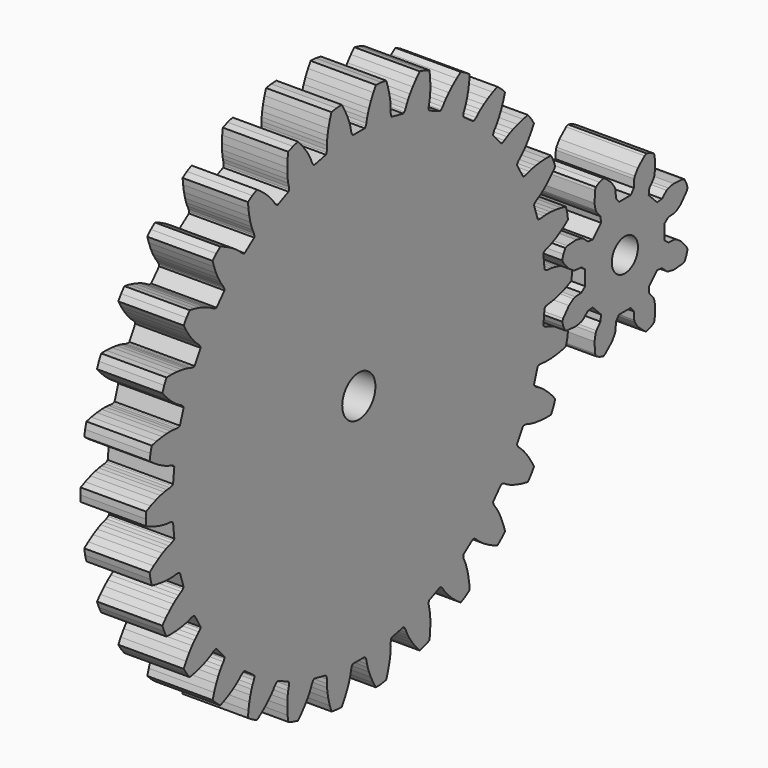
from build123d import *

# Parameters (mm, degrees)
F1_DEPTH = 10
F2_R     = 3.175
F3_DEPTH = 36.7
F4_R     = 2.5
F5_DEPTH = 56
F6_DEPTH = 2


with BuildPart() as f1:
    # F0 (on Right) → F1 (new body)
    with BuildSketch(Plane.YZ):
        Polygon((28.849024, -9.636093), (29.784062, -9.422255), (30.038928, -8.471084), (30.192972, -7.498484), (29.425748, -6.922818), (28.517222, -6.335478), (27.724242, -5.898059), (27.062545, -5.591166), (26.5457, -5.393991), (25.990495, -5.2255), (25.631829, -5.045352), (25.47228, -4.853606), (25.710303, -2.588968), (25.906232, -2.434585), (26.294515, -2.332944), (26.872618, -2.283569), (27.419164, -2.19816), (28.130208, -2.035548), (28.996804, -1.772558), (30.007592, -1.386945), (30.877738, -0.983374), (30.929274, 0), (30.877738, 0.983374), (30.007592, 1.386945), (28.996804, 1.772558), (28.130208, 2.035548), (27.419164, 2.19816), (26.872618, 2.283569), (26.294515, 2.332944), (25.906232, 2.434585), (25.710303, 2.588968), (25.47228, 4.853606), (25.631829, 5.045352), (25.990495, 5.2255), (26.5457, 5.393991), (27.062545, 5.591166), (27.724242, 5.898059), (28.517222, 6.335478), (29.425748, 6.922818), (30.192972, 7.498484), (30.038928, 8.471084), (29.784062, 9.422255), (28.849024, 9.636093), (27.780151, 9.803125), (26.877813, 9.880192), (26.148498, 9.891417), (25.596139, 9.861325), (25.020402, 9.789427), (24.619472, 9.808118), (24.395727, 9.918392), (23.69206, 12.084055), (23.808256, 12.304782), (24.12163, 12.555565), (24.629671, 12.835807), (25.094227, 13.136132), (25.677657, 13.573893), (26.362364, 14.166623), (27.128922, 14.930022), (27.759693, 15.652623), (27.406799, 16.571942), (26.959744, 17.449337), (26.000679, 17.464097), (24.920436, 17.405248), (24.021793, 17.293025), (23.306082, 17.152371), (22.772049, 17.008095), (22.223842, 16.818065), (21.827787, 16.75299), (21.586004, 16.814335), (20.447448, 18.786372), (20.515213, 19.026435), (20.769597, 19.336891), (21.208271, 19.716637), (21.600234, 20.106986), (22.0799, 20.656482), (22.626409, 21.378618), (23.217496, 22.284712), (23.684246, 23.122667), (23.147927, 23.948526), (22.52822, 24.7138), (21.587044, 24.528837), (20.542642, 24.246678), (19.686969, 23.950069), (19.016142, 23.663684), (18.523775, 23.411529), (18.027058, 23.111673), (17.653187, 22.965676), (17.403933, 22.975411), (15.880248, 24.667635), (15.89662, 24.916541), (16.080898, 25.273103), (16.431032, 25.735756), (16.733272, 26.199067), (17.088209, 26.836285), (17.472635, 27.656266), (17.862418, 28.665453), (18.144748, 29.582139), (17.448443, 30.278444), (16.683168, 30.898151), (15.801015, 30.521548), (14.8381, 30.028412), (14.062794, 29.56038), (13.466169, 29.14078), (13.036988, 28.791767), (12.613468, 28.395191), (12.278122, 28.174651), (12.032291, 28.132351), (10.190068, 29.470804), (10.154333, 29.717674), (10.26045, 30.104758), (10.506742, 30.630098), (10.706049, 31.146124), (10.920745, 31.843212), (11.126287, 32.725202), (11.29773, 33.793376), (11.383301, 34.74873), (10.557442, 35.285049), (9.680046, 35.732105), (8.89547, 35.180321), (8.056126, 34.49776), (7.395072, 33.878761), (6.898724, 33.344285), (6.551485, 32.913666), (6.219673, 32.437702), (5.937508, 32.152259), (5.705844, 32.059772), (3.625598, 32.985957), (3.539316, 33.220003), (3.562636, 33.620691), (3.694321, 34.185758), (3.781985, 34.731946), (3.847056, 35.458439), (3.864731, 36.363889), (3.810342, 37.444366), (3.695413, 38.396635), (2.776094, 38.749529), (1.824924, 39.004394), (1.172215, 38.301546), (0.493125, 37.459391), (-0.024787, 36.716477), (-0.399164, 36.090484), (-0.649284, 35.597081), (-0.874887, 35.06253), (-1.091539, 34.724659), (-1.298912, 34.586027), (-3.526264, 35.059466), (-3.659321, 35.270458), (-3.719819, 35.667239), (-3.708495, 36.247336), (-3.736306, 36.799816), (-3.823703, 37.523962), (-3.994668, 38.413301), (-4.272513, 39.458858), (-4.582918, 40.366423), (-5.555518, 40.520467), (-6.538893, 40.572004), (-7.031208, 39.748809), (-7.520364, 38.783866), (-7.872498, 37.949507), (-8.108543, 37.259356), (-8.250613, 36.724732), (-8.360146, 36.154957), (-8.501817, 35.779425), (-8.675835, 35.600707), (-10.952947, 35.600707), (-11.126965, 35.779425), (-11.268636, 36.154957), (-11.378169, 36.724732), (-11.520239, 37.259356), (-11.756284, 37.949507), (-12.108418, 38.783866), (-12.597574, 39.748809), (-13.089889, 40.572004), (-14.073264, 40.520467), (-15.045864, 40.366423), (-15.356269, 39.458858), (-15.634114, 38.413301), (-15.805079, 37.523962), (-15.892476, 36.799816), (-15.920287, 36.247336), (-15.908963, 35.667239), (-15.969461, 35.270458), (-16.102518, 35.059466), (-18.32987, 34.586027), (-18.537243, 34.724659), (-18.753895, 35.06253), (-18.979498, 35.597081), (-19.229618, 36.090484), (-19.603995, 36.716477), (-20.121907, 37.459391), (-20.800997, 38.301546), (-21.453706, 39.004394), (-22.404876, 38.749529), (-23.324195, 38.396635), (-23.439124, 37.444366), (-23.493513, 36.363889), (-23.475838, 35.458439), (-23.410767, 34.731946), (-23.323103, 34.185758), (-23.191418, 33.620691), (-23.168098, 33.220003), (-23.25438, 32.985957), (-25.334626, 32.059772), (-25.56629, 32.152259), (-25.848455, 32.437702), (-26.180267, 32.913666), (-26.527506, 33.344285), (-27.023854, 33.878761), (-27.684908, 34.49776), (-28.524252, 35.180321), (-29.308828, 35.732105), (-30.186224, 35.285049), (-31.012083, 34.74873), (-30.926512, 33.793376), (-30.755069, 32.725202), (-30.549527, 31.843212), (-30.334831, 31.146124), (-30.135524, 30.630098), (-29.889232, 30.104758), (-29.783115, 29.717674), (-29.81885, 29.470804), (-31.661073, 28.132351), (-31.906904, 28.174651), (-32.24225, 28.395191), (-32.66577, 28.791767), (-33.094951, 29.14078), (-33.691576, 29.56038), (-34.466882, 30.028412), (-35.429797, 30.521548), (-36.31195, 30.898151), (-37.077225, 30.278444), (-37.77353, 29.582139), (-37.4912, 28.665453), (-37.101417, 27.656266), (-36.716991, 26.836285), (-36.362054, 26.199067), (-36.059814, 25.735756), (-35.70968, 25.273103), (-35.525402, 24.916541), (-35.50903, 24.667635), (-37.032715, 22.975411), (-37.281969, 22.965676), (-37.65584, 23.111673), (-38.152557, 23.411529), (-38.644924, 23.663684), (-39.315751, 23.950069), (-40.171424, 24.246678), (-41.215826, 24.528837), (-42.157002, 24.7138), (-42.776709, 23.948526), (-43.313028, 23.122667), (-42.846278, 22.284712), (-42.255191, 21.378618), (-41.708682, 20.656482), (-41.229016, 20.106986), (-40.837053, 19.716637), (-40.398379, 19.336891), (-40.143995, 19.026435), (-40.07623, 18.786372), (-41.214786, 16.814335), (-41.456569, 16.75299), (-41.852624, 16.818065), (-42.400831, 17.008095), (-42.934864, 17.152371), (-43.650575, 17.293025), (-44.549218, 17.405248), (-45.629461, 17.464097), (-46.588526, 17.449337), (-47.035581, 16.571942), (-47.388475, 15.652623), (-46.757704, 14.930022), (-45.991146, 14.166623), (-45.306439, 13.573893), (-44.723009, 13.136132), (-44.258453, 12.835807), (-43.750412, 12.555565), (-43.437038, 12.304782), (-43.320842, 12.084055), (-44.024509, 9.918392), (-44.248254, 9.808118), (-44.649184, 9.789427), (-45.224921, 9.861325), (-45.77728, 9.891417), (-46.506595, 9.880192), (-47.408933, 9.803125), (-48.477806, 9.636093), (-49.412844, 9.422255), (-49.66771, 8.471084), (-49.821754, 7.498484), (-49.05453, 6.922818), (-48.146004, 6.335478), (-47.353024, 5.898059), (-46.691327, 5.591166), (-46.174482, 5.393991), (-45.619277, 5.2255), (-45.260611, 5.045352), (-45.101062, 4.853606), (-45.339085, 2.588968), (-45.535014, 2.434585), (-45.923297, 2.332944), (-46.5014, 2.283569), (-47.047946, 2.19816), (-47.75899, 2.035548), (-48.625586, 1.772558), (-49.636374, 1.386945), (-50.50652, 0.983374), (-50.558056, 0), (-50.50652, -0.983374), (-49.636374, -1.386945), (-48.625586, -1.772558), (-47.75899, -2.035548), (-47.047946, -2.19816), (-46.5014, -2.283569), (-45.923297, -2.332944), (-45.535014, -2.434585), (-45.339085, -2.588968), (-45.101062, -4.853606), (-45.260611, -5.045352), (-45.619277, -5.2255), (-46.174482, -5.393991), (-46.691327, -5.591166), (-47.353024, -5.898059), (-48.146004, -6.335478), (-49.05453, -6.922818), (-49.821754, -7.498484), (-49.66771, -8.471084), (-49.412844, -9.422255), (-48.477806, -9.636093), (-47.408933, -9.803125), (-46.506595, -9.880192), (-45.77728, -9.891417), (-45.224921, -9.861325), (-44.649184, -9.789427), (-44.248254, -9.808118), (-44.024509, -9.918392), (-43.320842, -12.084055), (-43.437038, -12.304782), (-43.750412, -12.555565), (-44.258453, -12.835807), (-44.723009, -13.136132), (-45.306439, -13.573893), (-45.991146, -14.166623), (-46.757704, -14.930022), (-47.388475, -15.652623), (-47.035581, -16.571942), (-46.588526, -17.449337), (-45.629461, -17.464097), (-44.549218, -17.405248), (-43.650575, -17.293025), (-42.934864, -17.152371), (-42.400831, -17.008095), (-41.852624, -16.818065), (-41.456569, -16.75299), (-41.214786, -16.814335), (-40.07623, -18.786372), (-40.143995, -19.026435), (-40.398379, -19.336891), (-40.837053, -19.716637), (-41.229016, -20.106986), (-41.708682, -20.656482), (-42.255191, -21.378618), (-42.846278, -22.284712), (-43.313028, -23.122667), (-42.776709, -23.948526), (-42.157002, -24.7138), (-41.215826, -24.528837), (-40.171424, -24.246678), (-39.315751, -23.950069), (-38.644924, -23.663684), (-38.152557, -23.411529), (-37.65584, -23.111673), (-37.281969, -22.965676), (-37.032715, -22.975411), (-35.50903, -24.667635), (-35.525402, -24.916541), (-35.70968, -25.273103), (-36.059814, -25.735756), (-36.362054, -26.199067), (-36.716991, -26.836285), (-37.101417, -27.656266), (-37.4912, -28.665453), (-37.77353, -29.582139), (-37.077225, -30.278444), (-36.31195, -30.898151), (-35.429797, -30.521548), (-34.466882, -30.028412), (-33.691576, -29.56038), (-33.094951, -29.14078), (-32.66577, -28.791767), (-32.24225, -28.395191), (-31.906904, -28.174651), (-31.661073, -28.132351), (-29.81885, -29.470804), (-29.783115, -29.717674), (-29.889232, -30.104758), (-30.135524, -30.630098), (-30.334831, -31.146124), (-30.549527, -31.843212), (-30.755069, -32.725202), (-30.926512, -33.793376), (-31.012083, -34.74873), (-30.186224, -35.285049), (-29.308828, -35.732105), (-28.524252, -35.180321), (-27.684908, -34.49776), (-27.023854, -33.878761), (-26.527506, -33.344285), (-26.180267, -32.913666), (-25.848455, -32.437702), (-25.56629, -32.152259), (-25.334626, -32.059772), (-23.25438, -32.985957), (-23.168098, -33.220003), (-23.191418, -33.620691), (-23.323103, -34.185758), (-23.410767, -34.731946), (-23.475838, -35.458439), (-23.493513, -36.363889), (-23.439124, -37.444366), (-23.324195, -38.396635), (-22.404876, -38.749529), (-21.453706, -39.004394), (-20.800997, -38.301546), (-20.121907, -37.459391), (-19.603995, -36.716477), (-19.229618, -36.090484), (-18.979498, -35.597081), (-18.753895, -35.06253), (-18.537243, -34.724659), (-18.32987, -34.586027), (-16.102518, -35.059466), (-15.969461, -35.270458), (-15.908963, -35.667239), (-15.920287, -36.247336), (-15.892476, -36.799816), (-15.805079, -37.523962), (-15.634114, -38.413301), (-15.356269, -39.458858), (-15.045864, -40.366423), (-14.073264, -40.520467), (-13.089889, -40.572004), (-12.597574, -39.748809), (-12.108418, -38.783866), (-11.756284, -37.949507), (-11.520239, -37.259356), (-11.378169, -36.724732), (-11.268636, -36.154957), (-11.126965, -35.779425), (-10.952947, -35.600707), (-8.675835, -35.600707), (-8.501817, -35.779425), (-8.360146, -36.154957), (-8.250613, -36.724732), (-8.108543, -37.259356), (-7.872498, -37.949507), (-7.520364, -38.783866), (-7.031208, -39.748809), (-6.538893, -40.572004), (-5.555518, -40.520467), (-4.582918, -40.366423), (-4.272513, -39.458858), (-3.994668, -38.413301), (-3.823703, -37.523962), (-3.736306, -36.799816), (-3.708495, -36.247336), (-3.719819, -35.667239), (-3.659321, -35.270458), (-3.526264, -35.059466), (-1.298912, -34.586027), (-1.091539, -34.724659), (-0.874887, -35.06253), (-0.649284, -35.597081), (-0.399164, -36.090484), (-0.024787, -36.716477), (0.493125, -37.459391), (1.172215, -38.301546), (1.824924, -39.004394), (2.776094, -38.749529), (3.695413, -38.396635), (3.810342, -37.444366), (3.864731, -36.363889), (3.847056, -35.458439), (3.781985, -34.731946), (3.694321, -34.185758), (3.562636, -33.620691), (3.539316, -33.220003), (3.625598, -32.985957), (5.705844, -32.059772), (5.937508, -32.152259), (6.219673, -32.437702), (6.551485, -32.913666), (6.898724, -33.344285), (7.395072, -33.878761), (8.056126, -34.49776), (8.89547, -35.180321), (9.680046, -35.732105), (10.557442, -35.285049), (11.383301, -34.74873), (11.29773, -33.793376), (11.126287, -32.725202), (10.920745, -31.843212), (10.706049, -31.146124), (10.506742, -30.630098), (10.26045, -30.104758), (10.154333, -29.717674), (10.190068, -29.470804), (12.032291, -28.132351), (12.278122, -28.174651), (12.613468, -28.395191), (13.036988, -28.791767), (13.466169, -29.14078), (14.062794, -29.56038), (14.8381, -30.028412), (15.801015, -30.521548), (16.683168, -30.898151), (17.448443, -30.278444), (18.144748, -29.582139), (17.862418, -28.665453), (17.472635, -27.656266), (17.088209, -26.836285), (16.733272, -26.199067), (16.431032, -25.735756), (16.080898, -25.273103), (15.89662, -24.916541), (15.880248, -24.667635), (17.403933, -22.975411), (17.653187, -22.965676), (18.027058, -23.111673), (18.523775, -23.411529), (19.016142, -23.663684), (19.686969, -23.950069), (20.542642, -24.246678), (21.587044, -24.528837), (22.52822, -24.7138), (23.147927, -23.948526), (23.684246, -23.122667), (23.217496, -22.284712), (22.626409, -21.378618), (22.0799, -20.656482), (21.600234, -20.106986), (21.208271, -19.716637), (20.769597, -19.336891), (20.515213, -19.026435), (20.447448, -18.786372), (21.586004, -16.814335), (21.827787, -16.75299), (22.223842, -16.818065), (22.772049, -17.008095), (23.306082, -17.152371), (24.021793, -17.293025), (24.920436, -17.405248), (26.000679, -17.464097), (26.959744, -17.449337), (27.406799, -16.571942), (27.759693, -15.652623), (27.128922, -14.930022), (26.362364, -14.166623), (25.677657, -13.573893), (25.094227, -13.136132), (24.629671, -12.835807), (24.12163, -12.555565), (23.808256, -12.304782), (23.69206, -12.084055), (24.395727, -9.918392), (24.619472, -9.808118), (25.020402, -9.789427), (25.596139, -9.861325), (26.148498, -9.891417), (26.877813, -9.880192), (27.780151, -9.803125), align=None)
        Polygon((-9.000918, -1.827091), (-9.398568, -1.956295), (-9.814391, -2), (-10.230214, -1.956295), (-10.627864, -1.827091), (-10.989962, -1.618034), (-11.300681, -1.338261), (-11.546442, -1), (-11.716504, -0.618034), (-11.803435, -0.209057), (-11.803435, 0.209057), (-11.716504, 0.618034), (-11.546442, 1), (-11.300681, 1.338261), (-10.989962, 1.618034), (-10.627864, 1.827091), (-10.230214, 1.956295), (-9.814391, 2), (-9.398568, 1.956295), (-9.000918, 1.827091), (-8.63882, 1.618034), (-8.328101, 1.338261), (-8.08234, 1), (-7.912278, 0.618034), (-7.825347, 0.209057), (-7.825347, -0.209057), (-7.912278, -0.618034), (-8.08234, -1), (-8.328101, -1.338261), (-8.63882, -1.618034), align=None, mode=Mode.SUBTRACT)
    extrude(amount=F1_DEPTH)

    # F2 (on face) → F3 (cut)
    with BuildSketch(Plane(origin=(0, 0, 0), x_dir=(0, -1, 0), z_dir=(-1, 0, 0))):
        with Locations((9.8143863436, 3.0898e-06)):
            Circle(F2_R)
        Polygon((9.814391, -2), (9.398568, -1.956295), (9.000918, -1.827091), (8.63882, -1.618034), (8.328101, -1.338261), (8.08234, -1), (7.912278, -0.618034), (7.825347, -0.209057), (7.825347, 0.209057), (7.912278, 0.618034), (8.08234, 1), (8.328101, 1.338261), (8.63882, 1.618034), (9.000918, 1.827091), (9.398568, 1.956295), (9.814391, 2), (10.230214, 1.956295), (10.627864, 1.827091), (10.989962, 1.618034), (11.300681, 1.338261), (11.546442, 1), (11.716504, 0.618034), (11.803435, 0.209057), (11.803435, -0.209057), (11.716504, -0.618034), (11.546442, -1), (11.300681, -1.338261), (10.989962, -1.618034), (10.627864, -1.827091), (10.230214, -1.956295), align=None, mode=Mode.SUBTRACT)
    extrude(amount=-F3_DEPTH, mode=Mode.SUBTRACT)


with BuildPart() as f1b:
    # F0 (on Right) → F1, piece 2 (new body)
    with BuildSketch(Plane.YZ):
        Polygon((27.563395, 5.693144), (27.172753, 5.559537), (26.805512, 4.872477), (26.579366, 4.126973), (26.761117, 3.756273), (27.873647, 2.481777), (28.726585, 1.909022), (29.070087, 1.791537), (30.253014, 1.711272), (30.979274, 1.138556), (30.979274, -1.138556), (30.253014, -1.711272), (29.070087, -1.791537), (28.726585, -1.909022), (27.873647, -2.481777), (26.761117, -3.756273), (26.579366, -4.126973), (26.805512, -4.872477), (27.172753, -5.559537), (27.563395, -5.693144), (29.251278, -5.807671), (30.259395, -5.609553), (30.585361, -5.449734), (31.478573, -4.670034), (32.397088, -4.561462), (34.00725, -6.171623), (33.898678, -7.090138), (33.118977, -7.98335), (32.959159, -8.309317), (32.76104, -9.317434), (32.875568, -11.005317), (33.009175, -11.395958), (33.696235, -11.7632), (34.441738, -11.989346), (34.812438, -11.807595), (36.086935, -10.695065), (36.65969, -9.842127), (36.777175, -9.498625), (36.857439, -8.315698), (37.430155, -7.589437), (39.707268, -7.589437), (40.279984, -8.315698), (40.360249, -9.498625), (40.477733, -9.842127), (41.050489, -10.695065), (42.324985, -11.807595), (42.695685, -11.989346), (43.441188, -11.7632), (44.128249, -11.395958), (44.261856, -11.005317), (44.376383, -9.317434), (44.178264, -8.309317), (44.018446, -7.98335), (43.238746, -7.090138), (43.130173, -6.171623), (44.740335, -4.561462), (45.65885, -4.670034), (46.552062, -5.449734), (46.878028, -5.609553), (47.886146, -5.807671), (49.574029, -5.693144), (49.96467, -5.559537), (50.331911, -4.872477), (50.558057, -4.126973), (50.376307, -3.756273), (49.263776, -2.481777), (48.410839, -1.909022), (48.067337, -1.791537), (46.884409, -1.711272), (46.158149, -1.138556), (46.158149, 1.138556), (46.884409, 1.711272), (48.067337, 1.791537), (48.410839, 1.909022), (49.263776, 2.481777), (50.376307, 3.756273), (50.558057, 4.126973), (50.331911, 4.872477), (49.96467, 5.559537), (49.574029, 5.693144), (47.886146, 5.807671), (46.878028, 5.609553), (46.552062, 5.449734), (45.65885, 4.670034), (44.740335, 4.561462), (43.130173, 6.171623), (43.238746, 7.090138), (44.018446, 7.98335), (44.178264, 8.309317), (44.376383, 9.317434), (44.261856, 11.005317), (44.128249, 11.395958), (43.441188, 11.7632), (42.695685, 11.989346), (42.324985, 11.807595), (41.050489, 10.695065), (40.477733, 9.842127), (40.360249, 9.498625), (40.279984, 8.315698), (39.707268, 7.589437), (37.430155, 7.589437), (36.857439, 8.315698), (36.777175, 9.498625), (36.65969, 9.842127), (36.086935, 10.695065), (34.812438, 11.807595), (34.441738, 11.989346), (33.696235, 11.7632), (33.009175, 11.395958), (32.875568, 11.005317), (32.76104, 9.317434), (32.959159, 8.309317), (33.118977, 7.98335), (33.898678, 7.090138), (34.00725, 6.171623), (32.397088, 4.561462), (31.478573, 4.670034), (30.585361, 5.449734), (30.259395, 5.609553), (29.251278, 5.807671), align=None)
        Polygon((37.117963, 1.376709), (37.435899, 1.648252), (37.803345, 1.847759), (38.204241, 1.96651), (38.621066, 1.999315), (39.035602, 1.94474), (39.429734, 1.805171), (39.786235, 1.586707), (40.089524, 1.298896), (40.326346, 0.954318), (40.486351, 0.568031), (40.562546, 0.156918), (40.551601, -0.261052), (40.453995, -0.667614), (40.273992, -1.044997), (40.01946, -1.376709), (39.701524, -1.648252), (39.334079, -1.847759), (38.933183, -1.96651), (38.516358, -1.999315), (38.101821, -1.94474), (37.70769, -1.805171), (37.351189, -1.586707), (37.0479, -1.298896), (36.811077, -0.954318), (36.651072, -0.568031), (36.574877, -0.156918), (36.585822, 0.261052), (36.683429, 0.667614), (36.863431, 1.044997), align=None, mode=Mode.SUBTRACT)
    extrude(amount=F1_DEPTH)

    # F4 (on face) → F5 (cut)
    with BuildSketch(Plane(origin=(0, 0, 0), x_dir=(0, -1, 0), z_dir=(-1, 0, 0))):
        with Locations((-38.5687082393, 3.424e-07)):
            Circle(F4_R)
        Polygon((-37.803345, 1.847759), (-37.435899, 1.648252), (-37.117963, 1.376709), (-36.863431, 1.044997), (-36.683429, 0.667614), (-36.585822, 0.261052), (-36.574877, -0.156918), (-36.651072, -0.568031), (-36.811077, -0.954318), (-37.0479, -1.298896), (-37.351189, -1.586707), (-37.70769, -1.805171), (-38.101821, -1.94474), (-38.516358, -1.999315), (-38.933183, -1.96651), (-39.334079, -1.847759), (-39.701524, -1.648252), (-40.01946, -1.376709), (-40.273992, -1.044997), (-40.453995, -0.667614), (-40.551601, -0.261052), (-40.562546, 0.156918), (-40.486351, 0.568031), (-40.326346, 0.954318), (-40.089524, 1.298896), (-39.786235, 1.586707), (-39.429734, 1.805171), (-39.035602, 1.94474), (-38.621066, 1.999315), (-38.204241, 1.96651), align=None, mode=Mode.SUBTRACT)
    extrude(amount=-F5_DEPTH, mode=Mode.SUBTRACT)

    # F6 (add): a face of the model
    f6_faces = [f1b.faces().sort_by_distance(p)[0] for p in [
        (10, 27.4778149301, 5.3054784463),
    ]]
    extrude(f6_faces, amount=F6_DEPTH)


solid = Compound([f1.part, f1b.part])
